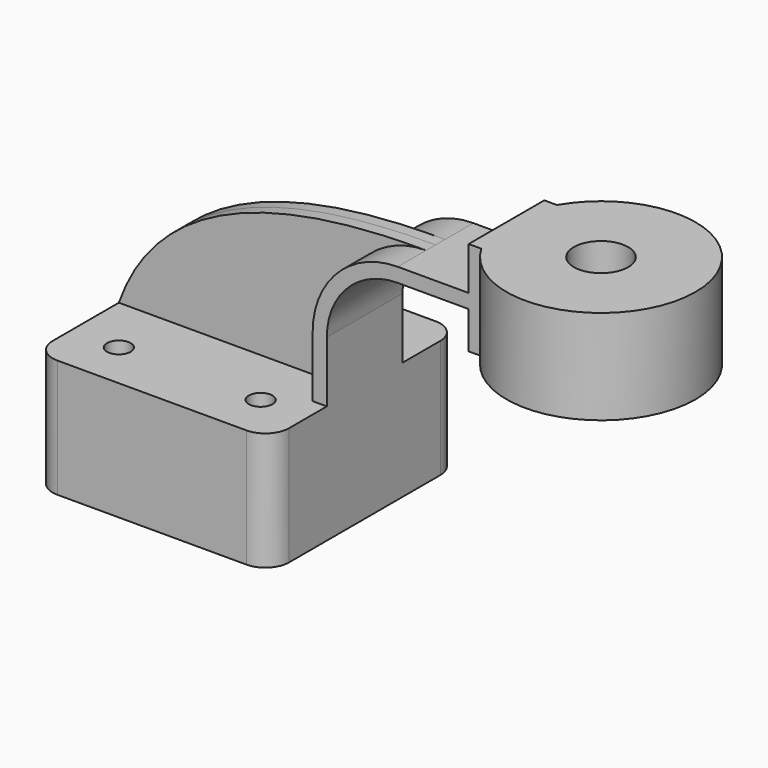
from build123d import *

# Parameters (mm, degrees)
F1_DEPTH = 63.5
F2_DEPTH = 25.4
F3_DEPTH = 6.35
F0_W     = 50.8
F0_H     = 50.8
F5_R     = 12.7
F6_R     = 14.605
F7_DEPTH = 165.101
F8_R     = 6.35
F9_DEPTH = 63.501


with BuildPart() as f1:
    # F0 (on Front) → F1 (new body, symmetric)
    with BuildSketch(Plane.XZ):
        Polygon((55.88, 31.75), (-63.5, 31.75), (-63.5, -31.75), (63.5, -31.75), (63.5, 31.75), align=None)
    extrude(amount=F1_DEPTH, both=True)

    # F0 (on Front) → F2 (join, symmetric)
    with BuildSketch(Plane.XZ):
        Polygon((139.7, 133.35), (139.7, 110.18212), (139.7, 102.56212), (139.7, 82.55), (190.5, 82.55), (190.5, 133.35), align=None)
        with BuildLine():
            Line((55.88, 64.46212), (55.88, 31.75))
            Line((55.88, 31.75), (63.5, 31.75))
            Line((63.5, 31.75), (63.5, 64.46212))
            ThreePointArc((63.5, 64.46212), (74.659232, 91.402888), (101.6, 102.56212))
            Line((101.6, 102.56212), (139.7, 102.56212))
            Line((139.7, 102.56212), (139.7, 110.18212))
            Line((139.7, 110.18212), (101.6, 110.18212))
            ThreePointArc((101.6, 110.18212), (69.271078, 96.791042), (55.88, 64.46212))
        make_face()
    extrude(amount=F2_DEPTH, both=True)

    # F0 (on Front) → F3 (join, symmetric)
    with BuildSketch(Plane.XZ):
        with BuildLine():
            add(Edge.make_bspline(
                [(-63.5, 31.75), (-41.28221, 95.252596), (30.595858, 110.611163), (101.6, 110.18212)],
                knots=[0, 0, 0, 0, 182.782952, 182.782952, 182.782952, 182.782952], degree=3))
            Line((-63.5, 31.75), (55.88, 31.75))
            Line((55.88, 31.75), (55.88, 64.46212))
            ThreePointArc((55.88, 64.46212), (69.271078, 96.791042), (101.6, 110.18212))
        make_face()
    extrude(amount=F3_DEPTH, both=True)

    # F0 (on Front) → F4 (revolve)
    with BuildSketch(Plane.XZ):
        with Locations((215.9, 107.95)):
            Rectangle(F0_W, F0_H)
    revolve(axis=Axis((190.5, 0, 107.95), (0, 0, 1)))

    # F5
    f5_edges = [f1.edges().sort_by_distance(p)[0] for p in [
        (63.5, -63.5, 0),
        (-63.5, -63.5, 0),
        (-63.5, 63.5, 0),
        (63.5, 63.5, 0),
    ]]
    fillet(f5_edges, radius=F5_R)

    # F6 (on face) → F7 (cut, through all)
    with BuildSketch(Plane.XY.offset(133.35)):
        with Locations((190.5, 0)):
            Circle(F6_R)
    extrude(amount=-F7_DEPTH, mode=Mode.SUBTRACT)

    # F8 (on face) → F9 (cut, through all)
    with BuildSketch(Plane.XY.offset(31.75)):
        with Locations((-38.1, -38.1)):
            Circle(F8_R)
        with Locations((38.1, -38.1)):
            Circle(F8_R)
        with Locations((38.1, 38.1)):
            Circle(F8_R)
        with Locations((-38.1, 38.1)):
            Circle(F8_R)
    extrude(amount=-F9_DEPTH, mode=Mode.SUBTRACT)


solid = f1.part
